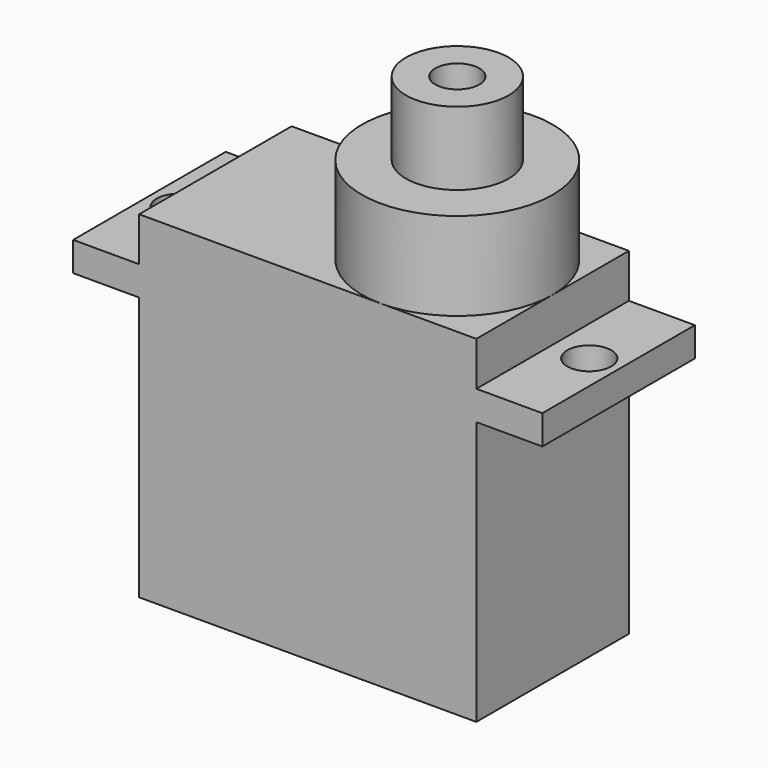
from build123d import *

# Parameters (mm, degrees)
CYLINDER007_R     = 1.5
CYLINDER007_DEPTH = 10
CYLINDER005_R     = 1.5
CYLINDER005_DEPTH = 5
CYLINDER006_R     = 1.5
CYLINDER006_DEPTH = 10
CYLINDER008_R     = 3.5
CYLINDER008_DEPTH = 5
BOX003_W          = 32
BOX003_H          = 13
BOX003_DEPTH      = 2
CYLINDER009_R     = 6.5
CYLINDER009_DEPTH = 6
BOX002_W          = 23
BOX002_H          = 13
BOX002_DEPTH      = 23


with BuildPart() as zylinder007:
    # Cylinder007 → Cylinder007 (new body)
    with BuildSketch(Plane(origin=(25.5, 6.5, 13), x_dir=(1, 0, 0), z_dir=(0, 0, 1))):
        Circle(CYLINDER007_R)
    extrude(amount=CYLINDER007_DEPTH)


with BuildPart() as zylinder005:
    # Cylinder005 → Cylinder005 (new body)
    with BuildSketch(Plane(origin=(16.5, 6.5, 30), x_dir=(1, 0, 0), z_dir=(0, 0, 1))):
        Circle(CYLINDER005_R)
    extrude(amount=CYLINDER005_DEPTH)


with BuildPart() as fusion003:
    # Cylinder006 → Cylinder006 (new body)
    with BuildSketch(Plane(origin=(-2.5, 6.5, 13), x_dir=(1, 0, 0), z_dir=(0, 0, 1))):
        Circle(CYLINDER006_R)
    extrude(amount=CYLINDER006_DEPTH)

    # Fusion003: union Zylinder007, Zylinder005
    add(zylinder007.part)
    add(zylinder005.part)


with BuildPart() as zylinder008:
    # Cylinder008 → Cylinder008 (new body)
    with BuildSketch(Plane(origin=(16.5, 6.5, 29), x_dir=(1, 0, 0), z_dir=(0, 0, 1))):
        Circle(CYLINDER008_R)
    extrude(amount=CYLINDER008_DEPTH)


with BuildPart() as obj1:
    # Box003 → Box003 (new body)
    with BuildSketch(Plane(origin=(-4.5, 0, 18), x_dir=(1, 0, 0), z_dir=(0, 0, 1))):
        with Locations((16, 6.5)):
            Rectangle(BOX003_W, BOX003_H)
    extrude(amount=BOX003_DEPTH)


with BuildPart() as zylinder009:
    # Cylinder009 → Cylinder009 (new body)
    with BuildSketch(Plane(origin=(16.5, 6.5, 23), x_dir=(1, 0, 0), z_dir=(0, 0, 1))):
        Circle(CYLINDER009_R)
    extrude(amount=CYLINDER009_DEPTH)


with BuildPart() as servo2:
    # Box002 → Box002 (new body)
    with BuildSketch(Plane.XY):
        with Locations((11.5, 6.5)):
            Rectangle(BOX002_W, BOX002_H)
    extrude(amount=BOX002_DEPTH)

    # Fusion002: union Zylinder008, obj1, Zylinder009
    add(zylinder008.part)
    add(obj1.part)
    add(zylinder009.part)

    # Cut001: cut Fusion003
    add(fusion003.part, mode=Mode.SUBTRACT)


with BuildPart() as servo2_1:
    # Cut001 placement: moved
    add(servo2.part.moved(Location((0, -16.5, -25))))


solid = servo2_1.part
